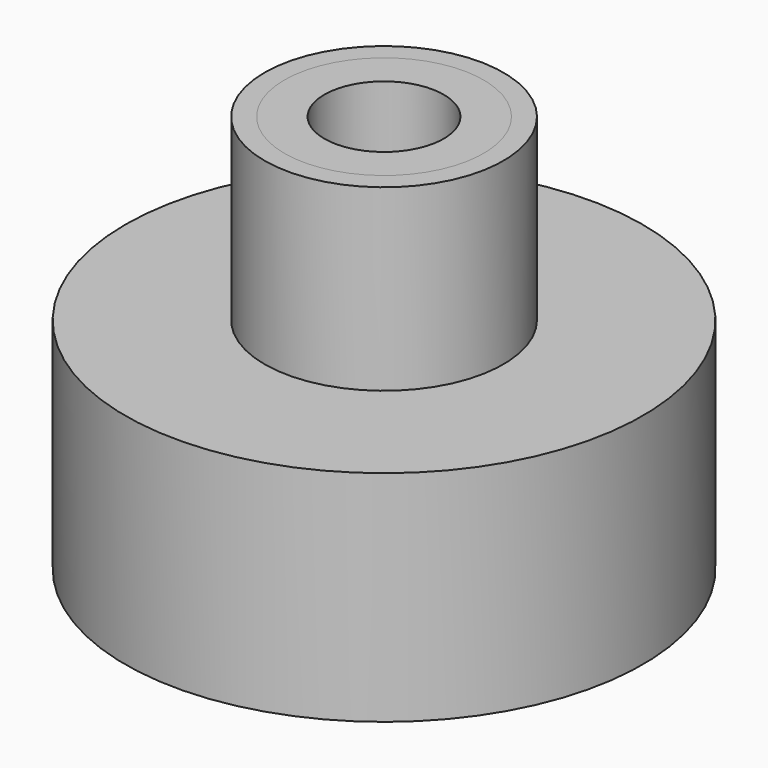
from build123d import *


with BuildPart() as f1:
    # F0 (on Front) → F1 (revolve)
    with BuildSketch(Plane.XZ):
        Polygon((-25, 50), (-30, 50), (-30, 5), (-65, 5), (-65, -50), (-60, -50), (-60, 0), (-50, 0), (-25, 0), align=None)
    revolve(axis=Axis((0, 0, 42.08643), (0, 0, 1)))


with BuildPart() as f2:
    # F0 (on Front) → F2 (revolve)
    with BuildSketch(Plane.XZ):
        Polygon((-15, 50), (-25, 50), (-25, 0), (-50, 0), (-50, -10), (-15, -10), align=None)
    revolve(axis=Axis((0, 0, 42.08643), (0, 0, 1)))


solid = Compound([f1.part, f2.part])
